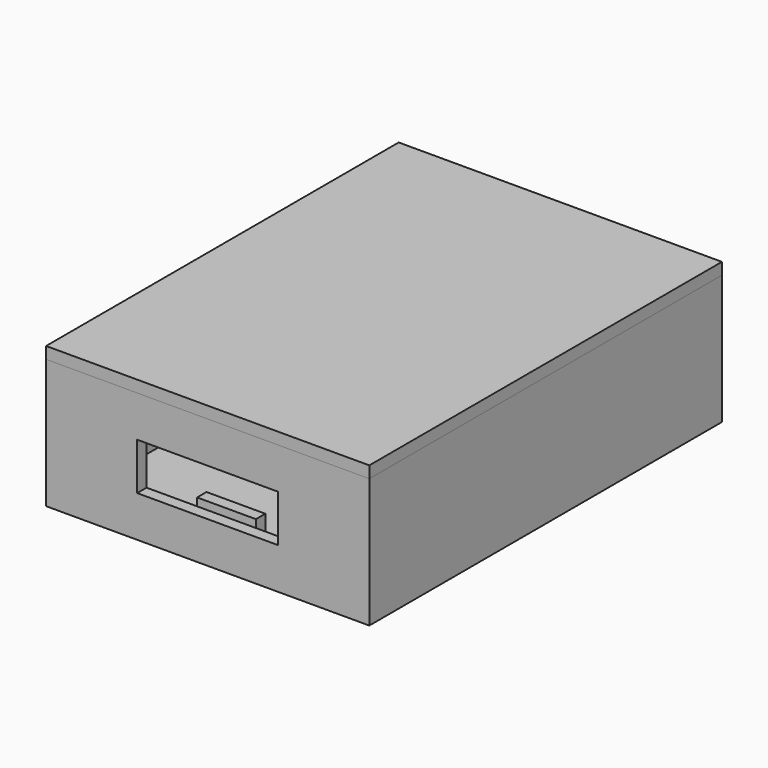
from build123d import *

# Parameters (mm, degrees)
F0_W      = 55
F0_H      = 75
F1_DEPTH  = 2
F2_W      = 55
F2_H      = 75
F2_W_2    = 51
F2_H_2    = 71
F3_DEPTH  = 20
F4_W      = 10
F4_H      = 2
F5_DEPTH  = 5
F6_W      = 24
F6_H      = 20.3130708972
F7_DEPTH  = 8
F8_W      = 55
F8_H      = 75
F9_DEPTH  = 2
F10_W     = 50.8
F10_H     = 70.8
F10_W_2   = 49
F10_H_2   = 68.9
F11_DEPTH = 3
F12_W     = 40
F12_H     = 25
F13_DEPTH = 1.5


with BuildPart() as f1:
    # F0 (on Top) → F1 (new body)
    with BuildSketch(Plane.XY):
        Rectangle(F0_W, F0_H)
    extrude(amount=F1_DEPTH)

    # F2 (on face) → F3 (join)
    with BuildSketch(Plane.XY.offset(2)):
        Rectangle(F2_W, F2_H)
        Rectangle(F2_W_2, F2_H_2, mode=Mode.SUBTRACT)
    extrude(amount=F3_DEPTH)

    # F4 (on face) → F5 (join)
    with BuildSketch(Plane.XY.offset(2)):
        Polygon((-25.5, 35.5), (-25.5, -35.5), (-24, -35.5), (-24, 32.5), (24, 32.5), (24, -35.5), (25.5, -35.5), (25.5, 35.5), align=None)
        with Locations((0, -32.5)):
            Rectangle(F4_W, F4_H)
    extrude(amount=F5_DEPTH)

    # F6 (on face) → F7 (cut)
    with BuildSketch(Plane.XY.offset(7)):
        with Locations((0, -33.1037100405)):
            Rectangle(F6_W, F6_H)
    extrude(amount=F7_DEPTH, mode=Mode.SUBTRACT)


with BuildPart() as f9:
    # F8 (on face) → F9 (new body)
    with BuildSketch(Plane.XY.offset(22)):
        Rectangle(F8_W, F8_H)
    extrude(amount=F9_DEPTH)

    # F10 (on face) → F11 (join)
    with BuildSketch(Plane(origin=(0, 0, 22), x_dir=(1, 0, 0), z_dir=(0, 0, -1))):
        Rectangle(F10_W, F10_H)
        with Locations((0, -0.05)):
            Rectangle(F10_W_2, F10_H_2, mode=Mode.SUBTRACT)
    extrude(amount=F11_DEPTH)

    # F12 (on face) → F13 (cut, through all)
    with BuildSketch(Plane(origin=(0, 0, 22), x_dir=(1, 0, 0), z_dir=(0, 0, -1))):
        with Locations((0, -20.4369307555)):
            Rectangle(F12_W, F12_H)
    extrude(amount=-F13_DEPTH, mode=Mode.SUBTRACT)


solid = Compound([f1.part, f9.part])
